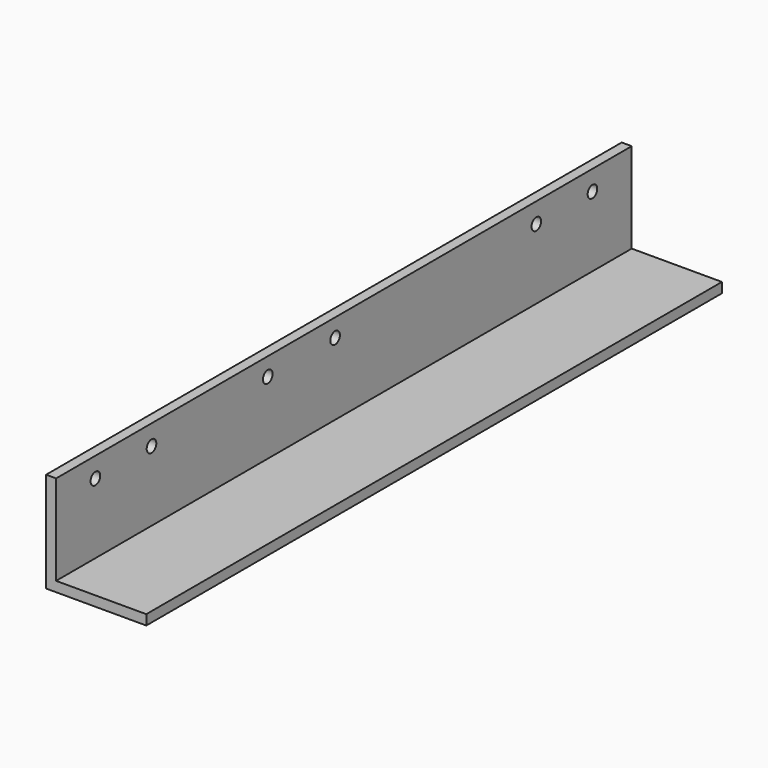
from build123d import *

# Parameters (mm, degrees)
F1_DEPTH = 359
F3_D     = 6
F4_D     = 6
F5_D     = 6
F6_D     = 6
F7_D     = 6
F7_DEPTH = 50


with BuildPart() as f1:
    # F0 (on Front) → F1 (new body)
    with BuildSketch(Plane.XZ):
        Polygon((-16.622992, 26.484536), (-21.622992, 26.484536), (-21.622992, -23.515464), (28.377008, -23.515464), (28.377008, -18.515464), (-16.622992, -18.515464), align=None)
    extrude(amount=F1_DEPTH)

    # F3 (through all)
    with Locations(Plane.YZ):
        with Locations((-334.5, 16.484536)):
            Hole(F3_D / 2)

    # F4 (through all)
    with Locations(Plane.YZ):
        with Locations((-24.5, 16.484536)):
            Hole(F4_D / 2)

    # F5 (through all)
    with Locations(Plane.YZ):
        with Locations((-299.5, 16.484536)):
            Hole(F5_D / 2)

    # F6 (through all)
    with Locations(Plane.YZ):
        with Locations((-59.5, 16.484536)):
            Hole(F6_D / 2)

    # F7
    with Locations(Plane.YZ):
        with Locations((-227, 17.484536), (-185, 17.484536)):
            Hole(F7_D / 2, depth=F7_DEPTH)


solid = f1.part
